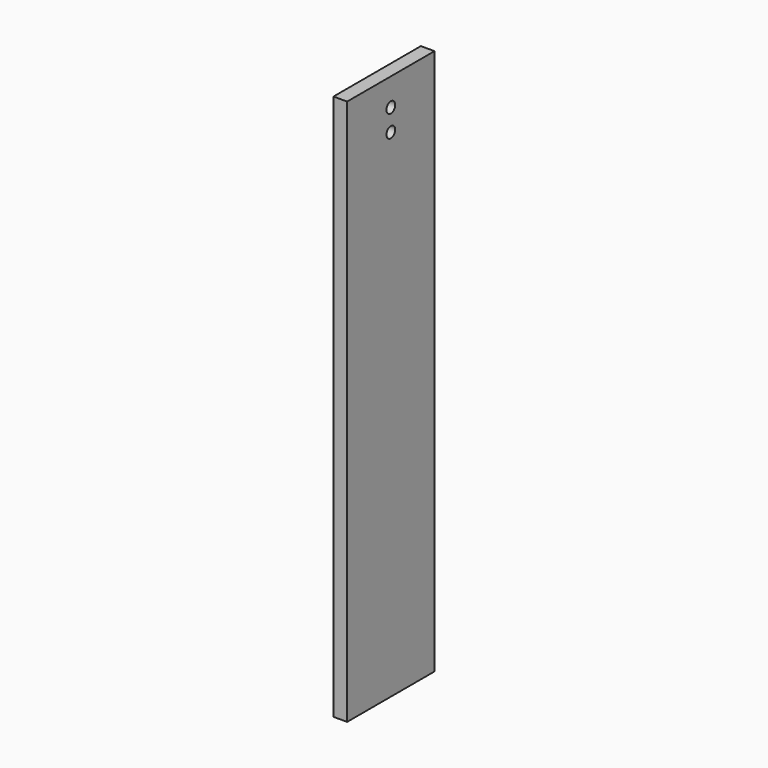
from build123d import *

# Parameters (mm, degrees)
SKETCH_W     = 80
SKETCH_H     = 400
PAD_DEPTH    = 10
SKETCH001_R  = 4
POCKET_DEPTH = 10


with BuildPart() as part:
    # Sketch → Pad (new body)
    with BuildSketch(Plane.YZ):
        Rectangle(SKETCH_W, SKETCH_H)
    extrude(amount=PAD_DEPTH)

    # Sketch001 → Pocket (cut)
    with BuildSketch(Plane.YZ.offset(10)):
        with Locations((0, 180)):
            Circle(SKETCH001_R)
        with Locations((0, 164)):
            Circle(SKETCH001_R)
    extrude(amount=-POCKET_DEPTH, mode=Mode.SUBTRACT)


solid = part.part
